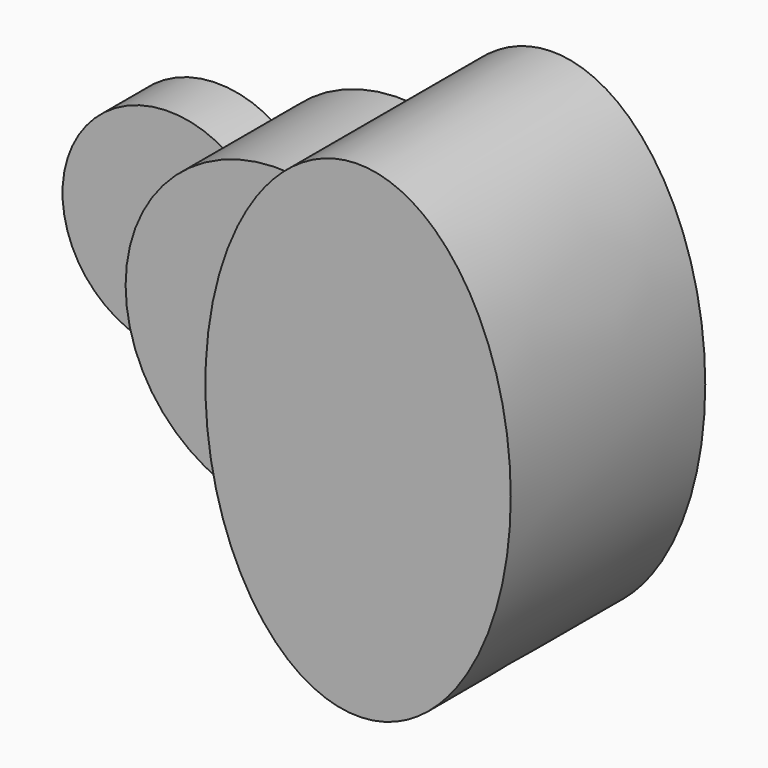
from build123d import *

# Parameters (mm, degrees)
F1_DEPTH = 25.4
F2_DEPTH = 63.5
F3_DEPTH = 101.6


with BuildPart() as f1:
    # F0 (on Front) → F1 (new body)
    with BuildSketch(Plane.XZ):
        with BuildLine():
            ThreePointArc((-63.8096574991, 0), (-60.7468435556, 19.531855728), (-51.8524271007, 37.1886836809))
            ThreePointArc((-51.8524271007, 37.1886836809), (-120.65, 0), (-51.8524271007, -37.1886836809))
            ThreePointArc((-51.8524271007, -37.1886836809), (-60.7468435556, -19.531855728), (-63.8096574991, 0))
        make_face()
    extrude(amount=F1_DEPTH)


with BuildPart() as f2:
    # F0 (on Front) → F2 (new body)
    with BuildSketch(Plane.XZ):
        with BuildLine():
            Line((-31.75, 0), (0, 0))
            add(Edge.make_bspline(
                [(13.4420397932, 62.3777520944), (0, 34.860728543), (0, 0)],
                knots=[0.9097358786, 0.9097358786, 0.9097358786, 1.5707963268, 1.5707963268, 1.5707963268], degree=2, weights=[1, 0.9458703951, 1]))
            ThreePointArc((13.4420397932, 62.3777520944), (-22.9665355499, 59.5332733435), (-51.8524271007, 37.1886836809))
            ThreePointArc((-51.8524271007, 37.1886836809), (-37.0972372116, 21.1370868928), (-31.75, 0))
        make_face()
        with BuildLine():
            add(Edge.make_bspline(
                [(0, 0), (0, -34.860728543), (13.4420397932, -62.3777520944)],
                knots=[1.5707963268, 1.5707963268, 1.5707963268, 2.231856775, 2.231856775, 2.231856775], degree=2, weights=[1, 0.9458703951, 1]))
            Line((0, 0), (-31.75, 0))
            ThreePointArc((-31.75, 0), (-37.0972372116, -21.1370868928), (-51.8524271007, -37.1886836809))
            ThreePointArc((-51.8524271007, -37.1886836809), (-22.9665355499, -59.5332733435), (13.4420397932, -62.3777520944))
        make_face()
        with BuildLine():
            ThreePointArc((-51.8524271007, -37.1886836809), (-37.0972372116, -21.1370868928), (-31.75, 0))
            Line((-31.75, 0), (-63.5, 0))
            Line((-63.5, 0), (-63.8096574991, 0))
            ThreePointArc((-63.8096574991, 0), (-60.7468435556, -19.531855728), (-51.8524271007, -37.1886836809))
        make_face()
        with BuildLine():
            Line((-63.5, 0), (-31.75, 0))
            ThreePointArc((-31.75, 0), (-37.0972372116, 21.1370868928), (-51.8524271007, 37.1886836809))
            ThreePointArc((-51.8524271007, 37.1886836809), (-60.7468435556, 19.531855728), (-63.8096574991, 0))
            Line((-63.8096574991, 0), (-63.5, 0))
        make_face()
    extrude(amount=F2_DEPTH)


with BuildPart() as f3:
    # F0 (on Front) → F3 (new body)
    with BuildSketch(Plane.XZ):
        with BuildLine():
            add(Edge.make_bspline(
                [(63.8096574991, 101.6), (32.6020705334, 101.6), (13.4420397932, 62.3777520944)],
                knots=[0, 0, 0, 0.9097358786, 0.9097358786, 0.9097358786], degree=2, weights=[1, 0.898319056, 1]))
            ThreePointArc((13.4420397932, 62.3777520944), (49.6457669164, 40.0870330335), (63.8096574991, 0))
            ThreePointArc((63.8096574991, 0), (49.6457669164, -40.0870330335), (13.4420397932, -62.3777520944))
            add(Edge.make_bspline(
                [(13.4420397932, -62.3777520944), (76.2126455669, -190.8746367924), (121.1310887901, -44.6373183962), (166.0495320133, 101.6), (63.8096574991, 101.6)],
                knots=[2.231856775, 2.231856775, 2.231856775, 4.2575210411, 4.2575210411, 6.2831853072, 6.2831853072, 6.2831853072], degree=2, weights=[1, 0.5294602511, 1, 0.5294602511, 1]))
        make_face()
        with BuildLine():
            add(Edge.make_bspline(
                [(13.4420397932, 62.3777520944), (0, 34.860728543), (0, 0)],
                knots=[0.9097358786, 0.9097358786, 0.9097358786, 1.5707963268, 1.5707963268, 1.5707963268], degree=2, weights=[1, 0.9458703951, 1]))
            add(Edge.make_bspline(
                [(0, 0), (0, -34.860728543), (13.4420397932, -62.3777520944)],
                knots=[1.5707963268, 1.5707963268, 1.5707963268, 2.231856775, 2.231856775, 2.231856775], degree=2, weights=[1, 0.9458703951, 1]))
            ThreePointArc((13.4420397932, -62.3777520944), (49.6457669164, -40.0870330335), (63.8096574991, 0))
            ThreePointArc((63.8096574991, 0), (49.6457669164, 40.0870330335), (13.4420397932, 62.3777520944))
        make_face()
    extrude(amount=F3_DEPTH)


solid = Compound([f1.part, f2.part, f3.part])
